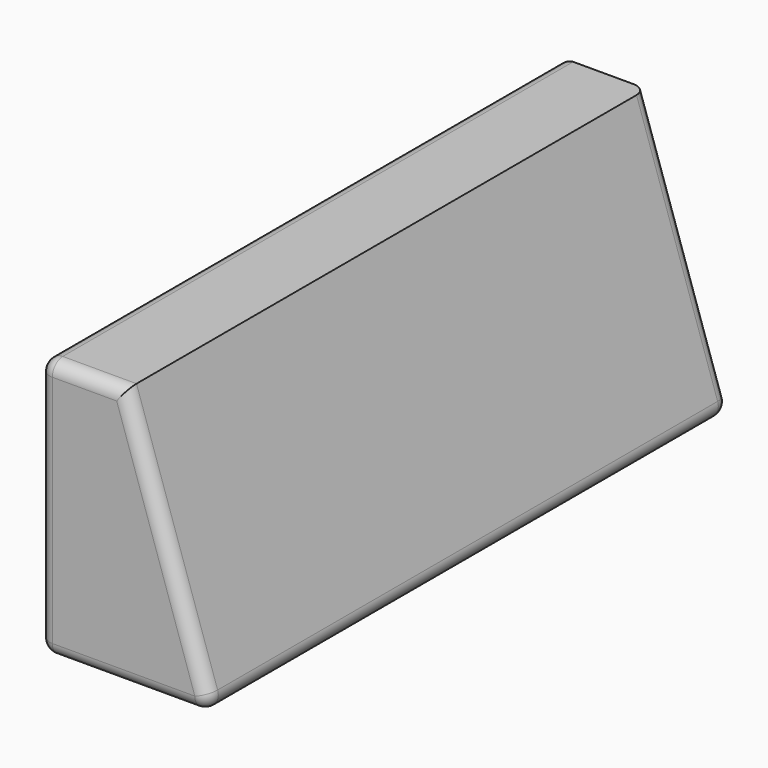
from build123d import *

# Parameters (mm, degrees)
F1_DEPTH = 3810
F2_R     = 76.2


with BuildPart() as f1:
    # F0 (on Front) → F1 (new body)
    with BuildSketch(Plane.XZ):
        Polygon((-1825.421534, 1422.861372), (-2333.421534, 1422.861372), (-2333.421534, -101.138628), (-1317.421534, -101.138628), align=None)
    extrude(amount=F1_DEPTH)

    # F2
    f2_edges = [f1.edges().sort_by_distance(p)[0] for p in [
        (-1571.421534, -3810, 660.861372),
        (-1571.421534, 0, 660.861372),
        (-2079.421534, -3810, 1422.861372),
        (-2333.421534, -3810, 660.861372),
        (-1825.421534, -3810, -101.138628),
        (-2333.421534, -1905, 1422.861372),
        (-2333.421534, -1905, -101.138628),
        (-2333.421534, 0, 660.861372),
        (-1317.421534, -1905, -101.138628),
        (-1825.421534, 0, -101.138628),
    ]]
    fillet(f2_edges, radius=F2_R)


solid = f1.part
